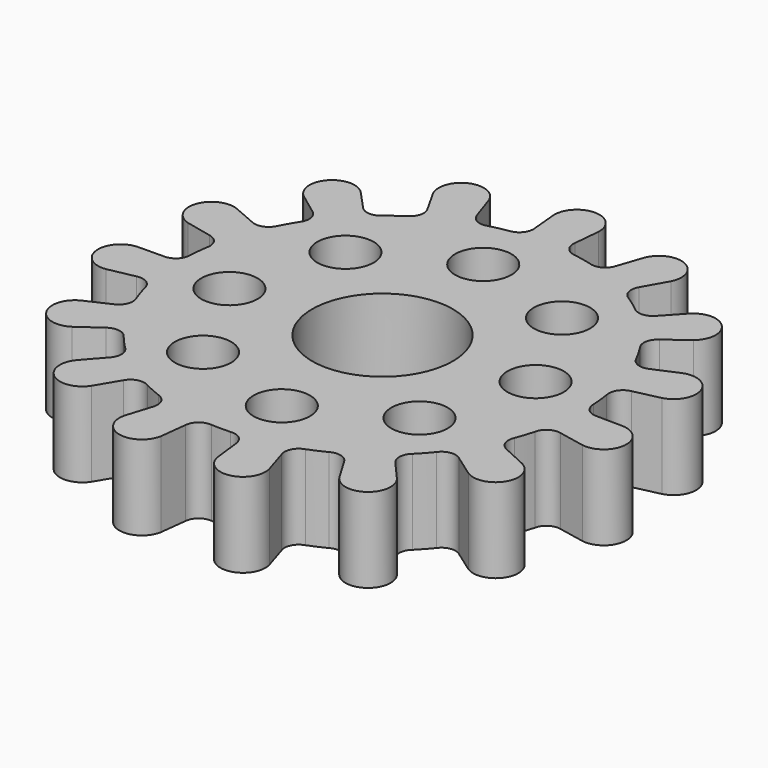
from build123d import *

# Parameters (mm, degrees)
F0_R     = 2
F0_R_2   = 5
F1_DEPTH = 6


with BuildPart() as f1:
    # F0 (on Top) → F1 (new body)
    with BuildSketch(Plane.XY):
        with BuildLine():
            Line((1.422636, 15.288272), (1.598278, 17.175797))
            ThreePointArc((1.598278, 17.175797), (0, 18.85), (-1.598278, 17.175797))
            Line((-1.598278, 17.175797), (-1.422236, 15.28397))
            ThreePointArc((-1.422236, 15.28397), (-1.633511, 14.531637), (-2.321448, 14.160981))
            ThreePointArc((-2.321448, 14.160981), (-2.983533, 14.036418), (-3.639042, 13.880918))
            ThreePointArc((-3.639042, 13.880918), (-4.420263, 13.940625), (-4.918657, 14.54517))
            Line((-4.918657, 14.54517), (-5.525926, 16.34095))
            ThreePointArc((-5.525926, 16.34095), (-7.666986, 17.220332), (-8.446126, 15.040793))
            Line((-8.446126, 15.040793), (-7.515828, 13.384126))
            ThreePointArc((-7.515828, 13.384126), (-7.402836, 12.610902), (-7.880538, 11.992482))
            ThreePointArc((-7.880538, 11.992482), (-8.434718, 11.609394), (-8.970308, 11.200718))
            ThreePointArc((-8.970308, 11.200718), (-9.708274, 10.937512), (-10.40947, 11.287075))
            Line((-10.40947, 11.287075), (-11.694648, 12.680604))
            ThreePointArc((-11.694648, 12.680604), (-14.00828, 12.613112), (-13.833562, 10.305099))
            Line((-13.833562, 10.305099), (-12.309865, 9.170045))
            ThreePointArc((-12.309865, 9.170045), (-11.892143, 8.509628), (-12.077011, 7.750374))
            ThreePointArc((-12.077011, 7.750374), (-12.427465, 7.175), (-12.750526, 6.583812))
            ThreePointArc((-12.750526, 6.583812), (-13.317637, 6.043204), (-14.100392, 6.077343))
            Line((-14.100392, 6.077343), (-15.841259, 6.827666))
            ThreePointArc((-15.841259, 6.827666), (-17.927415, 5.82497), (-16.829049, 3.78756))
            Line((-16.829049, 3.78756), (-14.975415, 3.37038))
            ThreePointArc((-14.975415, 3.37038), (-14.32519, 2.936961), (-14.18526, 2.168156))
            ThreePointArc((-14.18526, 2.168156), (-14.271389, 1.499983), (-14.326063, 0.828505))
            ThreePointArc((-14.326063, 0.828505), (-14.624259, 0.103971), (-15.353227, -0.183216))
            Line((-15.353227, -0.183216), (-17.248772, -0.205837))
            ThreePointArc((-17.248772, -0.205837), (-18.746738, -1.970362), (-16.914641, -3.384883))
            Line((-16.914641, -3.384883), (-15.051579, -3.012055))
            ThreePointArc((-15.051579, -3.012055), (-14.281282, -3.143532), (-13.840748, -3.788956))
            ThreePointArc((-13.840748, -3.788956), (-13.647661, -4.434394), (-13.424493, -5.070058))
            ThreePointArc((-13.424493, -5.070058), (-13.402214, -5.85324), (-13.95135, -6.412097))
            Line((-13.95135, -6.412097), (-15.673816, -7.203749))
            ThreePointArc((-15.673816, -7.203749), (-16.324579, -9.425), (-14.075537, -9.972048))
            Line((-14.075537, -9.972048), (-12.525188, -8.873678))
            ThreePointArc((-12.525188, -8.873678), (-11.768011, -8.68048), (-11.103045, -9.090923))
            ThreePointArc((-11.103045, -9.090923), (-10.664128, -9.602024), (-10.201706, -10.091961))
            ThreePointArc((-10.201706, -10.091961), (-9.862804, -10.798372), (-10.137158, -11.532267))
            Line((-10.137158, -11.532267), (-11.388715, -12.956067))
            ThreePointArc((-11.388715, -12.956067), (-11.079752, -15.24997), (-8.802646, -14.834956))
            Line((-8.802646, -14.834956), (-7.833079, -13.200961))
            ThreePointArc((-7.833079, -13.200961), (-7.219944, -12.716495), (-6.445525, -12.820987))
            ThreePointArc((-6.445525, -12.820987), (-5.836671, -13.109377), (-5.214952, -13.368873))
            ThreePointArc((-5.214952, -13.368873), (-4.618026, -13.876368), (-4.570159, -14.658404))
            Line((-4.570159, -14.658404), (-5.134401, -16.468164))
            ThreePointArc((-5.134401, -16.468164), (-3.919135, -18.438082), (-2.007697, -17.132765))
            Line((-2.007697, -17.132765), (-1.786559, -15.245678))
            ThreePointArc((-1.786559, -15.245678), (-1.423482, -14.553712), (-0.673515, -14.334186))
            ThreePointArc((-0.673515, -14.334186), (0, -14.35), (0.673515, -14.334186))
            ThreePointArc((0.673515, -14.334186), (1.42525, -14.555013), (1.787062, -15.249969))
            Line((1.787062, -15.249969), (2.007697, -17.132765))
            ThreePointArc((2.007697, -17.132765), (3.919135, -18.438082), (5.134401, -16.468164))
            Line((5.134401, -16.468164), (4.568873, -14.654279))
            ThreePointArc((4.568873, -14.654279), (4.619112, -13.87446), (5.214952, -13.368873))
            ThreePointArc((5.214952, -13.368873), (5.836671, -13.109377), (6.445525, -12.820987))
            ThreePointArc((6.445525, -12.820987), (7.222088, -12.716965), (7.835284, -13.204676))
            Line((7.835284, -13.204676), (8.802646, -14.834956))
            ThreePointArc((8.802646, -14.834956), (11.079752, -15.24997), (11.388715, -12.956067))
            Line((11.388715, -12.956067), (10.134305, -11.529022))
            ThreePointArc((10.134305, -11.529022), (9.86302, -10.796187), (10.201706, -10.091961))
            ThreePointArc((10.201706, -10.091961), (10.664128, -9.602024), (11.103045, -9.090923))
            ThreePointArc((11.103045, -9.090923), (11.770162, -8.680038), (12.528714, -8.876175))
            Line((12.528714, -8.876175), (14.075537, -9.972048))
            ThreePointArc((14.075537, -9.972048), (16.324579, -9.425), (15.673816, -7.203749))
            Line((15.673816, -7.203749), (13.947425, -6.410292))
            ThreePointArc((13.947425, -6.410292), (13.401522, -5.851156), (13.424493, -5.070058))
            ThreePointArc((13.424493, -5.070058), (13.647661, -4.434394), (13.840748, -3.788956))
            ThreePointArc((13.840748, -3.788956), (14.283067, -3.142253), (15.055815, -3.012903))
            Line((15.055815, -3.012903), (16.914641, -3.384883))
            ThreePointArc((16.914641, -3.384883), (18.746738, -1.970362), (17.248772, -0.205837))
            Line((17.248772, -0.205837), (15.348907, -0.183165))
            ThreePointArc((15.348907, -0.183165), (14.622779, 0.105593), (14.326063, 0.828505))
            ThreePointArc((14.326063, 0.828505), (14.271389, 1.499983), (14.18526, 2.168156))
            ThreePointArc((14.18526, 2.168156), (14.3263, 2.938856), (14.979629, 3.371328))
            Line((14.979629, 3.371328), (16.829049, 3.78756))
            ThreePointArc((16.829049, 3.78756), (17.927415, 5.82497), (15.841259, 6.827666))
            Line((15.841259, 6.827666), (14.096424, 6.075633))
            ThreePointArc((14.096424, 6.075633), (13.315625, 6.044084), (12.750526, 6.583812))
            ThreePointArc((12.750526, 6.583812), (12.427465, 7.175), (12.077011, 7.750374))
            ThreePointArc((12.077011, 7.750374), (11.892386, 8.51181), (12.31333, 9.172626))
            Line((12.31333, 9.172626), (13.833562, 10.305099))
            ThreePointArc((13.833562, 10.305099), (14.00828, 12.613112), (11.694648, 12.680604))
            Line((11.694648, 12.680604), (10.406542, 11.2839))
            ThreePointArc((10.406542, 11.2839), (9.706078, 10.937498), (8.970308, 11.200718))
            ThreePointArc((8.970308, 11.200718), (8.434718, 11.609394), (7.880538, 11.992482))
            ThreePointArc((7.880538, 11.992482), (7.402171, 12.612994), (7.517943, 13.387893))
            Line((7.517943, 13.387893), (8.446126, 15.040793))
            ThreePointArc((8.446126, 15.040793), (7.666986, 17.220332), (5.525926, 16.34095))
            Line((5.525926, 16.34095), (4.917273, 14.541077))
            ThreePointArc((4.917273, 14.541077), (4.418263, 13.939719), (3.639042, 13.880918))
            ThreePointArc((3.639042, 13.880918), (2.983533, 14.036418), (2.321448, 14.160981))
            ThreePointArc((2.321448, 14.160981), (1.632052, 14.533278), (1.422636, 15.288272))
        make_face()
        with Locations((-10.116822, -0.941412)):
            Circle(F0_R, mode=Mode.SUBTRACT)
        with Locations((-6.487995, -7.819352)):
            Circle(F0_R, mode=Mode.SUBTRACT)
        with Locations((0.941412, -10.116822)):
            Circle(F0_R, mode=Mode.SUBTRACT)
        with Locations((7.819352, -6.487995)):
            Circle(F0_R, mode=Mode.SUBTRACT)
        Circle(F0_R_2, mode=Mode.SUBTRACT)
        with Locations((-7.819352, 6.487995)):
            Circle(F0_R, mode=Mode.SUBTRACT)
        with Locations((-0.941412, 10.116822)):
            Circle(F0_R, mode=Mode.SUBTRACT)
        with Locations((6.487995, 7.819352)):
            Circle(F0_R, mode=Mode.SUBTRACT)
        with Locations((10.116822, 0.941412)):
            Circle(F0_R, mode=Mode.SUBTRACT)
    extrude(amount=F1_DEPTH)


solid = f1.part
